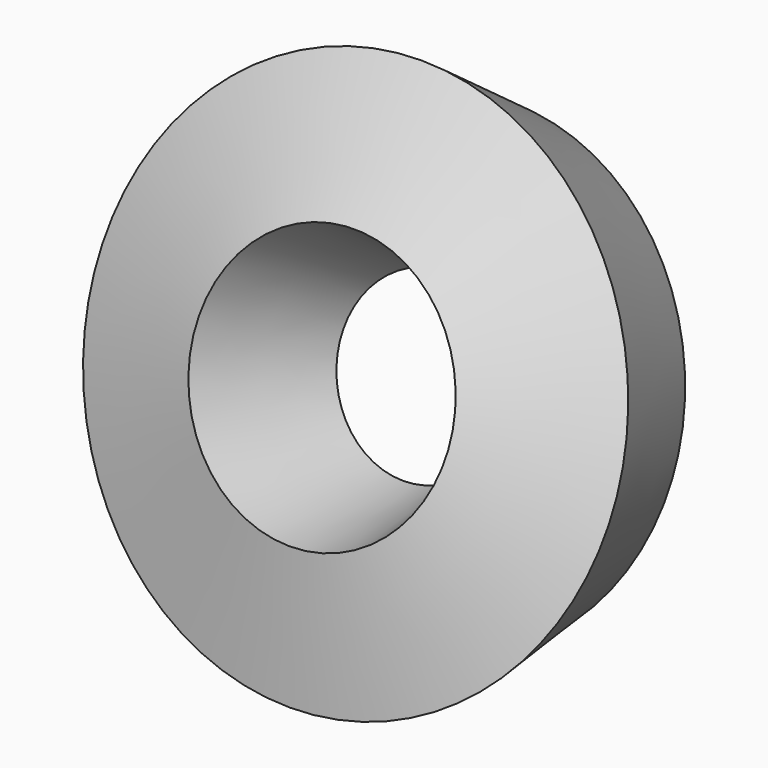
from build123d import *

# Parameters (mm, degrees)
F0_W = 10
F0_H = 10


with BuildPart() as f1:
    # F0 (on Right) → F1 (revolve)
    with BuildSketch(Plane.YZ):
        Rectangle(F0_W, F0_H)
    revolve(axis=Axis((0, -5.61798, 14.822857), (0, 0.950216, -0.311591)))


solid = f1.part
